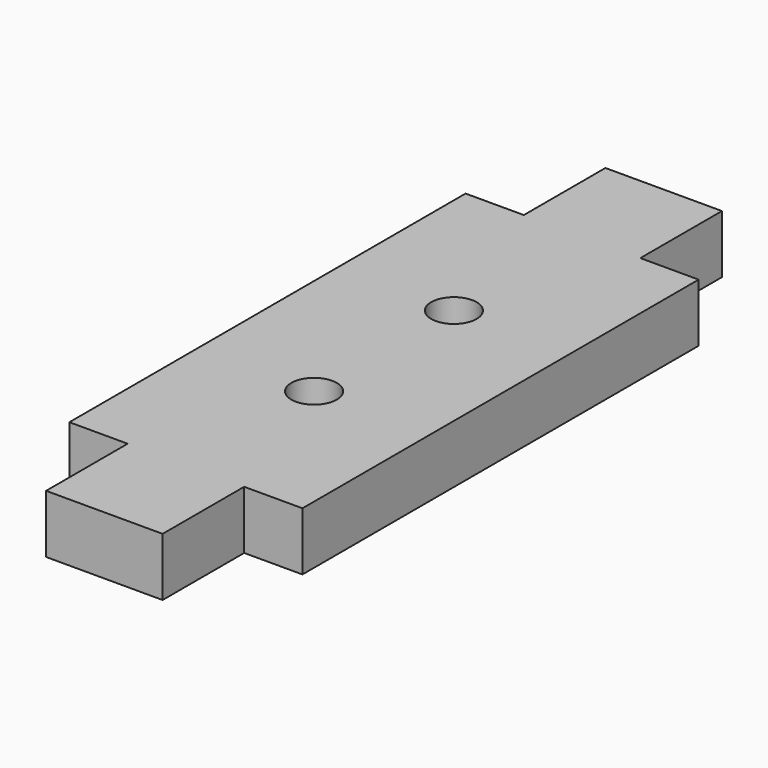
from build123d import *

# Parameters (mm, degrees)
F0_R     = 2.4765
F1_DEPTH = 6.35


with BuildPart() as f1:
    # F0 (on Top) → F1 (new body)
    with BuildSketch(Plane.XY):
        Polygon((6.35, -26.9875), (12.7, -26.9875), (12.7, 26.9875), (6.35, 26.9875), (6.35, 38.1), (-6.35, 38.1), (-6.35, 26.9875), (-12.7, 26.9875), (-12.7, -26.9875), (-6.35, -26.9875), (-6.35, -38.1), (6.35, -38.1), align=None)
        with Locations((0, -9.525)):
            Circle(F0_R, mode=Mode.SUBTRACT)
        with Locations((0, 9.525)):
            Circle(F0_R, mode=Mode.SUBTRACT)
    extrude(amount=F1_DEPTH)


solid = f1.part
